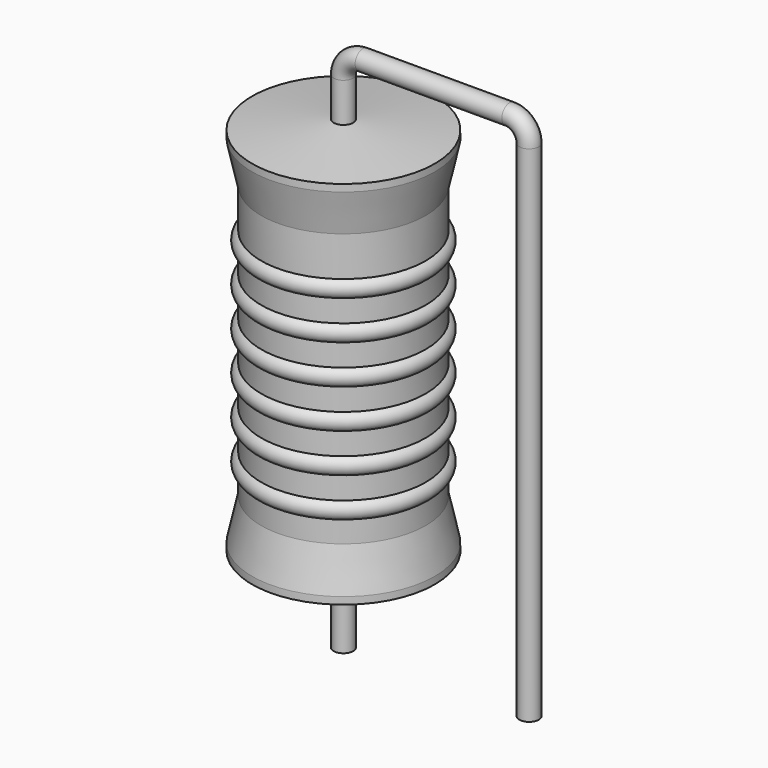
from build123d import *

# Parameters (mm, degrees)
SKETCH_R = 0.4


with BuildPart() as revolution:
    # Sketch002 → Revolution (revolve)
    with BuildSketch(Plane.XZ):
        Polygon((0, 0.1), (0, 16.1), (0.3, 16.1), (3.75, 15.7), (3.75, 15.4075), (3.375, 13.7), (3.375, 2.5), (3.75, 0.7925), (3.75, 0.5), (0.3, 0.1), align=None)
    revolve(axis=Axis((0, 0, 0), (0, 0, 1)))


with BuildPart() as sweep_body:
    # Sweep: sweep along a path in Sketch001
    with BuildLine(Plane.XZ) as sweep_path:
        Line((0, -3), (0, 17.7))
        ThreePointArc((0, 17.7), (0.234318, 18.265689), (0.800011, 18.5))
        Line((0.800011, 18.5), (6.82, 18.5))
        ThreePointArc((6.82, 18.5), (7.385685, 18.265685), (7.62, 17.7))
        Line((7.62, 17.7), (7.62, -3))
    # Sketch → Sweep (sweep)
    with BuildSketch(Plane.XY.offset(-2)):
        Circle(SKETCH_R)
    sweep(path=sweep_path.line)


with BuildPart() as obj1:
    # Sketch003 → Revolution001 (revolve)
    with BuildSketch(Plane.XZ):
        with BuildLine():
            Line((3, 12.95), (3, 2.5))
            Line((3, 2.5), (3.225, 2.5))
            Line((3.225, 2.5), (3.225, 3.35))
            ThreePointArc((3.225, 3.35), (3.6, 3.725), (3.225, 4.1))
            Line((3.225, 4.1), (3.225, 4.95))
            ThreePointArc((3.225, 4.95), (3.6, 5.325), (3.225, 5.7))
            Line((3.225, 5.7), (3.225, 6.55))
            ThreePointArc((3.225, 6.55), (3.6, 6.925), (3.225, 7.3))
            Line((3.225, 7.3), (3.225, 8.15))
            ThreePointArc((3.225, 8.15), (3.6, 8.525), (3.225, 8.9))
            Line((3.225, 8.9), (3.225, 9.75))
            ThreePointArc((3.225, 9.75), (3.6, 10.125), (3.225, 10.5))
            Line((3.225, 10.5), (3.225, 11.35))
            ThreePointArc((3.225, 11.35), (3.6, 11.725), (3.225, 12.1))
            Line((3.225, 12.95), (3.225, 12.1))
            Line((3, 12.95), (3.225, 12.95))
        make_face()
    revolve(axis=Axis((0, 0, 0), (0, 0, 1)))

    # obj1: union Revolution, Sweep body
    add(revolution.part)
    add(sweep_body.part)


solid = obj1.part
